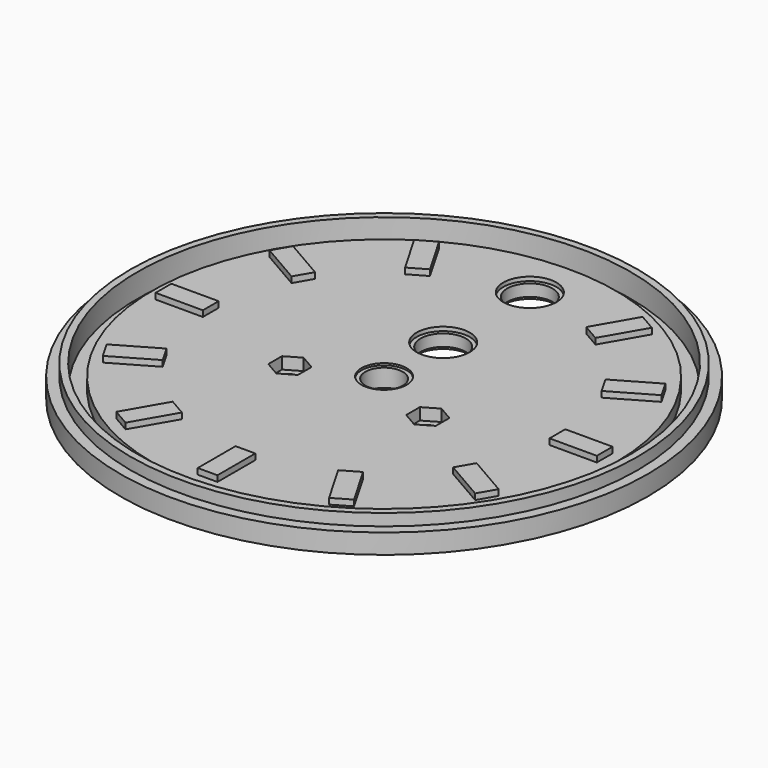
from build123d import *

# Parameters (mm, degrees)
F0_R      = 67
F1_DEPTH  = 2.5
F2_R      = 64.375
F2_R_2    = 62.625
F3_DEPTH  = 3
F4_R      = 4.75
F4_R_2    = 5.75
F4_R_3    = 2.1
F5_DEPTH  = 5.001
F6_R      = 5.75
F7_DEPTH  = 0.5
F6_R_2    = 6.75
F8_DEPTH  = 1
F2_R_3    = 58.875
F9_DEPTH  = 3
F10_R     = 6.75
F10_R_2   = 5.75
F11_DEPTH = 1
F13_W     = 5
F13_H     = 12
F14_DEPTH = 1.5
F15_COUNT = 6
F15_ANGLE = 150
F16_COUNT = 6
F16_ANGLE = 150
F17_DEPTH = 3


with BuildPart() as f1:
    # F0 (on Top) → F1 (new body, symmetric)
    with BuildSketch(Plane.XY):
        Circle(F0_R)
    extrude(amount=F1_DEPTH, both=True)

    # F2 (on face) → F3 (join)
    with BuildSketch(Plane.XY.offset(2.5)):
        Circle(F2_R)
        Circle(F2_R_2, mode=Mode.SUBTRACT)
    extrude(amount=F3_DEPTH)

    # F4 (on face) → F5 (cut, through all)
    with BuildSketch(Plane.XY.offset(2.5)):
        Circle(F4_R)
        with Locations((0, 18.75)):
            Circle(F4_R_2)
        with Locations((0, 46.25)):
            Circle(F4_R_2)
        with Locations((17.5, -8)):
            Circle(F4_R_3)
        with Locations((-17.5, -8)):
            Circle(F4_R_3)
    extrude(amount=-F5_DEPTH, mode=Mode.SUBTRACT)

    # F6 (on face) → F7 (cut)
    with BuildSketch(Plane.XY.offset(2.5)):
        Circle(F6_R)
    extrude(amount=-F7_DEPTH, mode=Mode.SUBTRACT)

    # F6 (on face) → F8 (cut)
    with BuildSketch(Plane.XY.offset(2.5)):
        with Locations((0, 18.75)):
            Circle(F6_R_2)
        with Locations((0, 46.25)):
            Circle(F6_R_2)
    extrude(amount=-F8_DEPTH, mode=Mode.SUBTRACT)

    # F2 (on face) → F9 (cut)
    with BuildSketch(Plane.XY.offset(2.5)):
        Circle(F2_R_2)
        Circle(F2_R_3, mode=Mode.SUBTRACT)
    extrude(amount=-F9_DEPTH, mode=Mode.SUBTRACT)

    # F10 (on face) → F11 (cut)
    with BuildSketch(Plane(origin=(0, 0, -2.5), x_dir=(1, 0, 0), z_dir=(0, 0, -1))):
        with Locations((0, -18.75)):
            Circle(F10_R)
        with Locations((0, -18.75)):
            Circle(F10_R_2, mode=Mode.SUBTRACT)
        with Locations((0, -46.25)):
            Circle(F10_R)
        with Locations((0, -46.25)):
            Circle(F10_R_2, mode=Mode.SUBTRACT)
    extrude(amount=-F11_DEPTH, mode=Mode.SUBTRACT)

    # F13 (on face) → F14 (join)
    with BuildSketch(Plane.XY.offset(2.5)):
        with Locations((0, -50)):
            Rectangle(F13_W, F13_H)
    f14 = extrude(amount=F14_DEPTH)

    # F15: F14 ×6 about axis
    f15_axis = Axis((0, 0, 2.5), (0, 0, 1))
    for i in range(1, F15_COUNT):
        add(f14.rotate(f15_axis, i * F15_ANGLE / (F15_COUNT - 1)))

    # F16: F14 ×6 about axis
    f16_axis = Axis((0, 0, 2.5), (0, 0, -1))
    for i in range(1, F16_COUNT):
        add(f14.rotate(f16_axis, i * F16_ANGLE / (F16_COUNT - 1)))

    # F6 (on face) → F17 (cut)
    with BuildSketch(Plane.XY.offset(2.5)):
        Polygon((-13.75, -10.1650635095), (-13.75, -5.8349364905), (-17.5, -3.6698729811), (-21.25, -5.8349364905), (-21.25, -10.1650635095), (-17.5, -12.3301270189), align=None)
        Polygon((21.25, -10.1650635095), (21.25, -5.8349364905), (17.5, -3.6698729811), (13.75, -5.8349364905), (13.75, -10.1650635095), (17.5, -12.3301270189), align=None)
    extrude(amount=-F17_DEPTH, mode=Mode.SUBTRACT)


solid = f1.part
